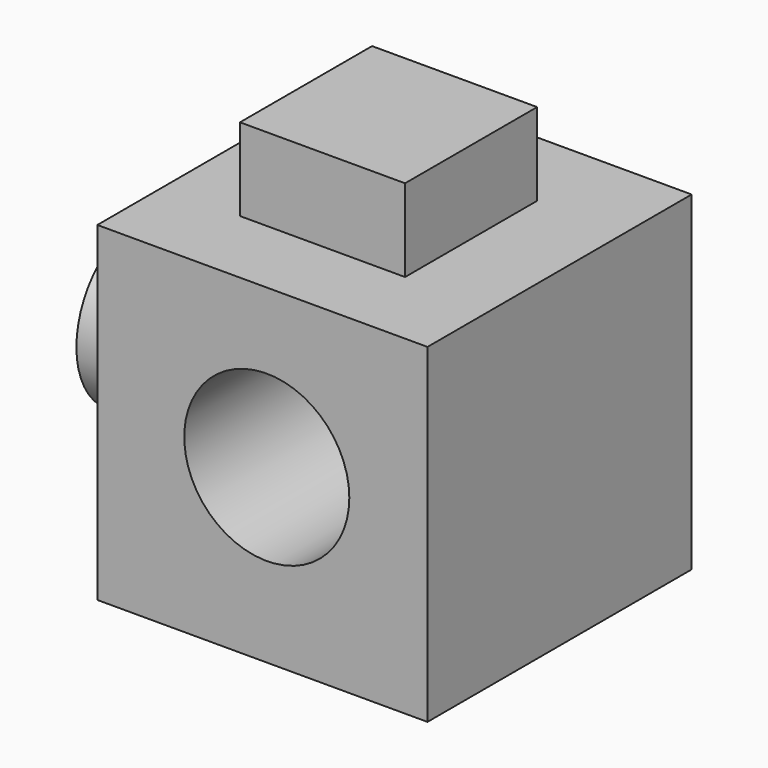
from build123d import *

# Parameters (mm, degrees)
F0_W     = 50.8
F0_H     = 50.8
F0_R     = 12.7
F1_DEPTH = 50.8
F2_R     = 12.7
F3_DEPTH = 12.7
F4_W     = 25.4
F4_H     = 25.4
F5_DEPTH = 12.7


with BuildPart() as f1:
    # F0 (on Front) → F1 (new body)
    with BuildSketch(Plane.XZ):
        with Locations((-25.4, 25.4)):
            Rectangle(F0_W, F0_H)
        with Locations((-24.728628, 26.447218)):
            Circle(F0_R, mode=Mode.SUBTRACT)
    extrude(amount=F1_DEPTH)

    # F2 (on face) → F3 (join)
    with BuildSketch(Plane(origin=(-50.8, 0, 0), x_dir=(0, -1, 0), z_dir=(-1, 0, 0))):
        with Locations((26.256265, 25.301492)):
            Circle(F2_R)
    extrude(amount=F3_DEPTH)

    # F4 (on face) → F5 (join)
    with BuildSketch(Plane.XY.offset(50.8)):
        with Locations((-26.162305, -25.586408)):
            Rectangle(F4_W, F4_H)
    extrude(amount=F5_DEPTH)


solid = f1.part
